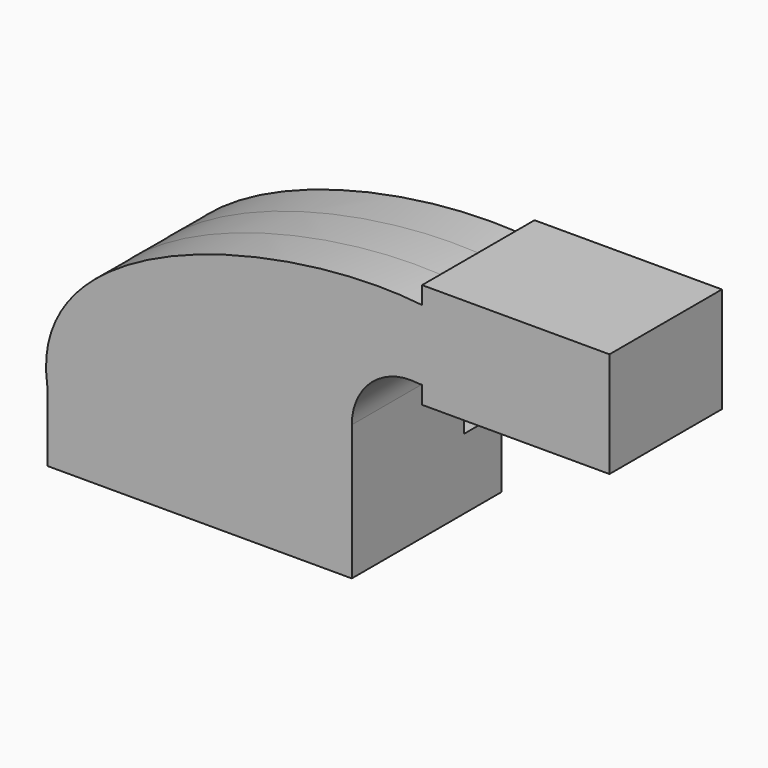
from build123d import *

# Parameters (mm, degrees)
F1_DEPTH = 25.4
F0_W     = 30.6482749184
F0_H     = 19.05
F0_H_2   = 4.7752
F2_DEPTH = 12.7
F3_DEPTH = 25.4


with BuildPart() as f1:
    # F0 (on Front) → F1 (new body)
    with BuildSketch(Plane.XZ):
        Polygon((-44.7792303854, -9.525), (37.7707696146, -9.525), (37.7707696146, 9.525), (18.7207696146, 9.525), (-44.7792303854, 9.525), align=None)
    extrude(amount=-F1_DEPTH)

    # F0 (on Front) → F2 (join, symmetric)
    with BuildSketch(Plane.XZ):
        Polygon((-44.7792303854, -9.525), (37.7707696146, -9.525), (37.7707696146, 9.525), (18.7207696146, 9.525), (-44.7792303854, 9.525), align=None)
        with BuildLine():
            Line((18.7207696146, 9.525), (37.7707696146, 9.525))
            Line((37.7707696146, 9.525), (37.7707696146, 27.1368854333))
            ThreePointArc((37.7707696146, 27.1368854333), (43.1811641643, 39.0745425639), (55.7244902785, 42.8752))
            Line((55.7244902785, 42.8752), (56.8207696146, 42.8752))
            Line((56.8207696146, 42.8752), (56.8207696146, 61.9252))
            Line((56.8207696146, 61.9252), (56.7326441838, 61.9252))
            ThreePointArc((56.7326441838, 61.9252), (30.0666842775, 52.9008594991), (18.7207696146, 27.1368854333))
            Line((18.7207696146, 27.1368854333), (18.7207696146, 9.525))
        make_face()
        with BuildLine():
            add(Edge.make_bspline(
                [(-44.7792303854, 9.525), (-50.61746484, 47.9471649566), (18.7515171766, 66.2469923459), (56.7326441838, 61.9252)],
                knots=[0, 0, 0, 0, 114.2385295712, 114.2385295712, 114.2385295712, 114.2385295712], degree=3))
            Line((-44.7792303854, 9.525), (18.7207696146, 9.525))
            Line((18.7207696146, 9.525), (18.7207696146, 27.1368854333))
            ThreePointArc((18.7207696146, 27.1368854333), (30.0666842775, 52.9008594991), (56.7326441838, 61.9252))
        make_face()
        with Locations((72.1449070738, 52.4002)):
            Rectangle(F0_W, F0_H)
        Polygon((56.8207696146, 66.675), (56.8207696146, 61.9252), (87.469044533, 61.9252), (87.469044533, 42.8752), (87.469044533, 38.1), (107.6207696146, 38.1), (107.6207696146, 66.675), align=None)
        with Locations((72.1449070738, 40.4876)):
            Rectangle(F0_W, F0_H_2)
    extrude(amount=F2_DEPTH, both=True)

    # F0 (on Front) → F3 (join)
    with BuildSketch(Plane.XZ):
        Polygon((-44.7792303854, -9.525), (37.7707696146, -9.525), (37.7707696146, 9.525), (18.7207696146, 9.525), (-44.7792303854, 9.525), align=None)
        with BuildLine():
            Line((18.7207696146, 9.525), (37.7707696146, 9.525))
            Line((37.7707696146, 9.525), (37.7707696146, 27.1368854333))
            ThreePointArc((37.7707696146, 27.1368854333), (43.1811641643, 39.0745425639), (55.7244902785, 42.8752))
            Line((55.7244902785, 42.8752), (56.8207696146, 42.8752))
            Line((56.8207696146, 42.8752), (56.8207696146, 61.9252))
            Line((56.8207696146, 61.9252), (56.7326441838, 61.9252))
            ThreePointArc((56.7326441838, 61.9252), (30.0666842775, 52.9008594991), (18.7207696146, 27.1368854333))
            Line((18.7207696146, 27.1368854333), (18.7207696146, 9.525))
        make_face()
        with BuildLine():
            add(Edge.make_bspline(
                [(-44.7792303854, 9.525), (-50.61746484, 47.9471649566), (18.7515171766, 66.2469923459), (56.7326441838, 61.9252)],
                knots=[0, 0, 0, 0, 114.2385295712, 114.2385295712, 114.2385295712, 114.2385295712], degree=3))
            Line((-44.7792303854, 9.525), (18.7207696146, 9.525))
            Line((18.7207696146, 9.525), (18.7207696146, 27.1368854333))
            ThreePointArc((18.7207696146, 27.1368854333), (30.0666842775, 52.9008594991), (56.7326441838, 61.9252))
        make_face()
        with Locations((72.1449070738, 52.4002)):
            Rectangle(F0_W, F0_H)
        Polygon((56.8207696146, 66.675), (56.8207696146, 61.9252), (87.469044533, 61.9252), (87.469044533, 42.8752), (87.469044533, 38.1), (107.6207696146, 38.1), (107.6207696146, 66.675), align=None)
        with Locations((72.1449070738, 40.4876)):
            Rectangle(F0_W, F0_H_2)
    extrude(amount=F3_DEPTH)


solid = f1.part
